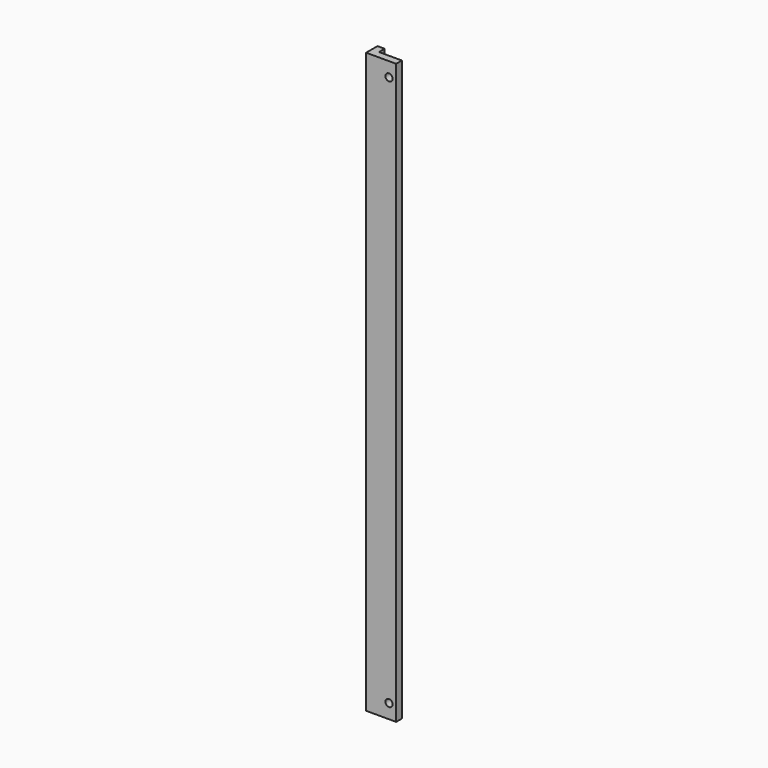
from build123d import *

# Parameters (mm, degrees)
F1_DEPTH = 5
F3_DEPTH = 400
F5_D     = 5
F7_D     = 5
F8_W     = 5
F8_H     = 5
F9_DEPTH = 400


with BuildPart() as f1:
    # F0 (on Top) → F1 (new body)
    with BuildSketch(Plane.XY):
        Polygon((5, 0), (0, 0), (0, -10), (21, -10), (21, -5), (11, -5), (11, 0), (6, 0), align=None)
    extrude(amount=F1_DEPTH)

    # F2 (on face) → F3 (join)
    with BuildSketch(Plane.XY.offset(5)):
        Polygon((5, 0), (0, 0), (0, -10), (21, -10), (21, -5), (11, -5), (11, 0), (6, 0), (6, -5), (5, -5), align=None)
    extrude(amount=F3_DEPTH)

    # F5 (through all)
    with Locations(Plane(origin=(0, -5, 0), x_dir=(-1, 0, 0), z_dir=(0, 1, 0))):
        with Locations((-16, 10)):
            Hole(F5_D / 2)

    # F7 (through all)
    with Locations(Plane(origin=(0, -5, 0), x_dir=(-1, 0, 0), z_dir=(0, 1, 0))):
        with Locations((-16, 395)):
            Hole(F7_D / 2)

    # F8 (on face) → F9 (cut)
    with BuildSketch(Plane.XY.offset(405)):
        with Locations((8.5, -2.5)):
            Rectangle(F8_W, F8_H)
    extrude(amount=-F9_DEPTH, mode=Mode.SUBTRACT)


solid = f1.part
